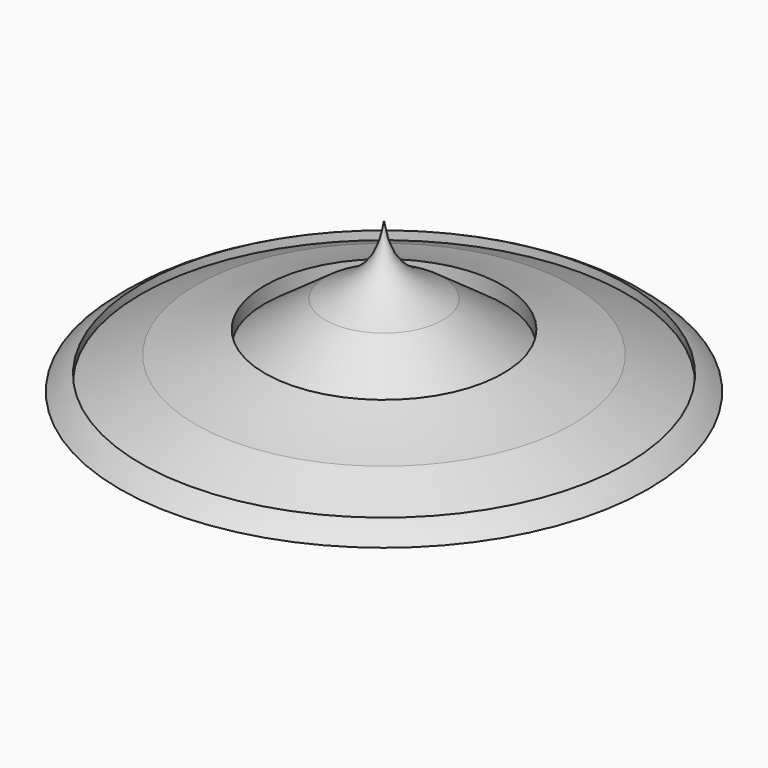
from build123d import *


with BuildPart() as f1:
    # F0 (on Front) → F1 (revolve)
    with BuildSketch(Plane.XZ):
        with BuildLine():
            Line((-35, 0), (0, 0))
            Line((0, 0), (0, 20))
            add(Edge.make_bspline(
                [(0, 20), (-0.2801790524, 18.3717661263), (-0.907291581, 14.7164651625), (-5.3328713961, 12.1267044184), (-7.7680051327, 10.8573380858)],
                knots=[0, 0, 0, 0, 0.1418738087, 0.3180139911, 0.3180139911, 0.3180139911, 0.3180139911], degree=3))
            Line((-7.7680051327, 10.8573380858), (-15.7788470387, 5.1459460519))
            Line((-15.7788470387, 5.1459460519), (-15.7788470387, 7.2531196959))
            add(Edge.make_bspline(
                [(-15.7788470387, 7.2531196959), (-18.7143819853, 6.1328650717), (-21.8733590032, 5.1273946562), (-24.9716155231, 4.2910752818)],
                knots=[0.5071575831, 0.5071575831, 0.5071575831, 0.5071575831, 0.7054864489, 0.7054864489, 0.7054864489, 0.7054864489], degree=3))
            Line((-24.9716155231, 4.2910752818), (-32.194506377, 0.9105589706))
            Line((-32.194506377, 0.9105589706), (-32.194506377, 2.0585448947))
            add(Edge.make_bspline(
                [(-32.194506377, 2.0585448947), (-33.4076422056, 1.4580678785), (-34.2040069868, 0.729831542), (-35, 0)],
                knots=[0.8809554045, 0.8809554045, 0.8809554045, 0.8809554045, 1, 1, 1, 1], degree=3))
        make_face()
    revolve(axis=Axis((0, 0, 10), (0, 0, 1)))


solid = f1.part
